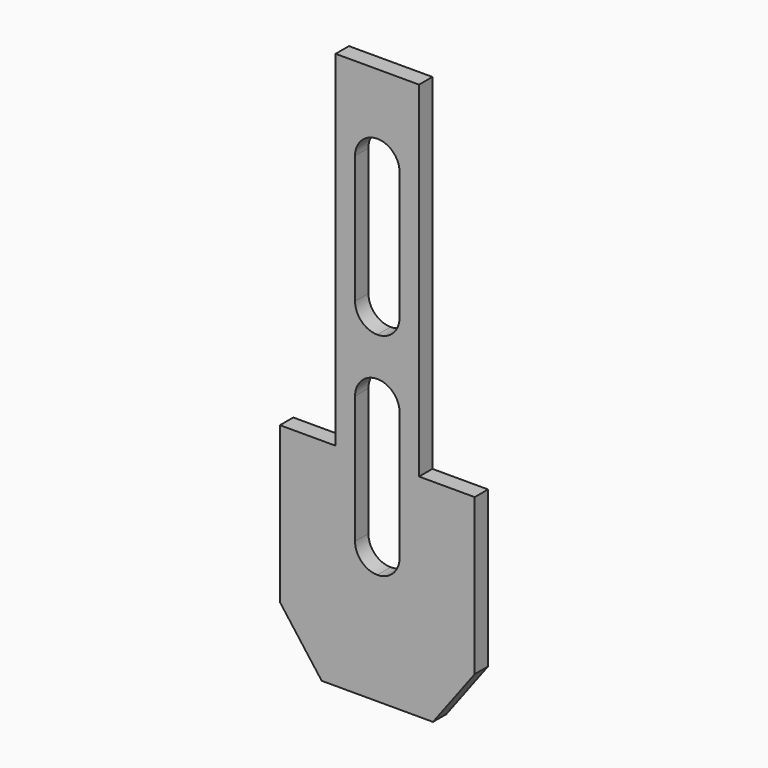
from build123d import *

# Parameters (mm, degrees)
F1_DEPTH = 3
F2_W     = 10
F2_H     = 62
F3_DEPTH = 25


with BuildPart() as f1:
    # F0 (on Front) → F1 (new body)
    with BuildSketch(Plane.XZ):
        Polygon((17.5, -45), (17.5, 45), (-17.5, 45), (-17.5, -45), (-10, -55), (10, -55), align=None)
        with BuildLine():
            Line((4, -8), (4, -31))
            ThreePointArc((4, -31), (2.828427, -33.828427), (0, -35))
            ThreePointArc((0, -35), (-2.828427, -33.828427), (-4, -31))
            Line((-4, -31), (-4, -8))
            ThreePointArc((-4, -8), (-2.828427, -5.171573), (0, -4))
            ThreePointArc((0, -4), (2.828427, -5.171573), (4, -8))
        make_face(mode=Mode.SUBTRACT)
        with BuildLine():
            Line((4, 30), (4, 7))
            ThreePointArc((4, 7), (2.828427, 4.171573), (0, 3))
            ThreePointArc((0, 3), (-2.828427, 4.171573), (-4, 7))
            Line((-4, 7), (-4, 30))
            ThreePointArc((-4, 30), (-2.828427, 32.828427), (0, 34))
            ThreePointArc((0, 34), (2.828427, 32.828427), (4, 30))
        make_face(mode=Mode.SUBTRACT)
    extrude(amount=F1_DEPTH)

    # F2 (on face) → F3 (cut)
    with BuildSketch(Plane.XZ.offset(3)):
        with Locations((-12.5, 14)):
            Rectangle(F2_W, F2_H)
        with Locations((12.5, 14)):
            Rectangle(F2_W, F2_H)
    extrude(amount=-F3_DEPTH, mode=Mode.SUBTRACT)


solid = f1.part
